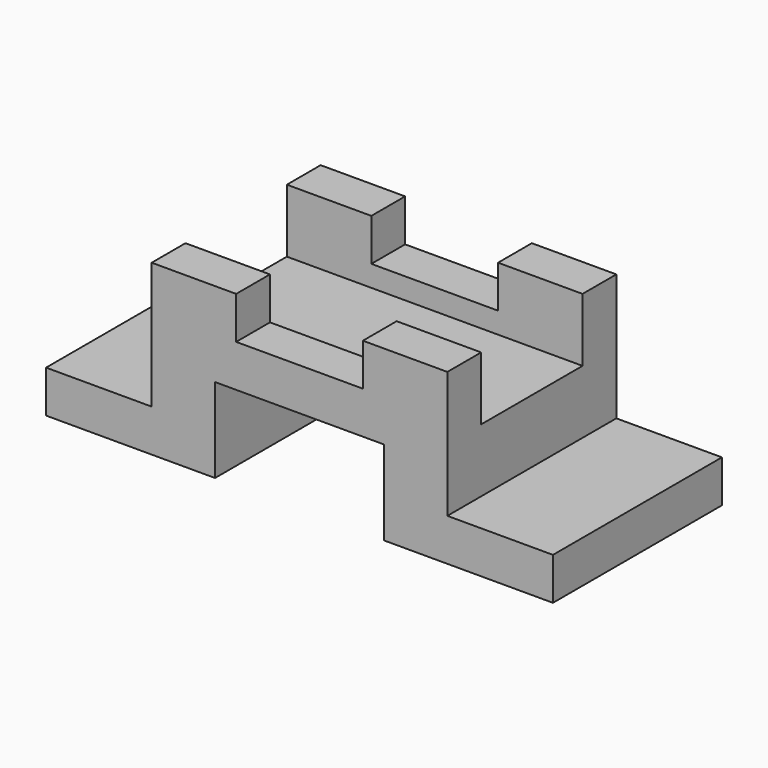
from build123d import *

# Parameters (mm, degrees)
F1_DEPTH = 50
F2_W     = 30
F2_H     = 30
F3_DEPTH = 70


with BuildPart() as f1:
    # F0 (on Front) → F1 (new body)
    with BuildSketch(Plane.XZ):
        Polygon((-40, 0), (0, 0), (0, 10), (-25, 10), (-25, 40), (-45, 40), (-45, 30), (-75, 30), (-75, 40), (-95, 40), (-95, 10), (-120, 10), (-120, 0), (-80, 0), (-80, 20), (-40, 20), align=None)
    extrude(amount=-F1_DEPTH)

    # F2 (on face) → F3 (cut)
    with BuildSketch(Plane.YZ.offset(-25)):
        with Locations((25, 40)):
            Rectangle(F2_W, F2_H)
    extrude(amount=-F3_DEPTH, mode=Mode.SUBTRACT)


solid = f1.part
